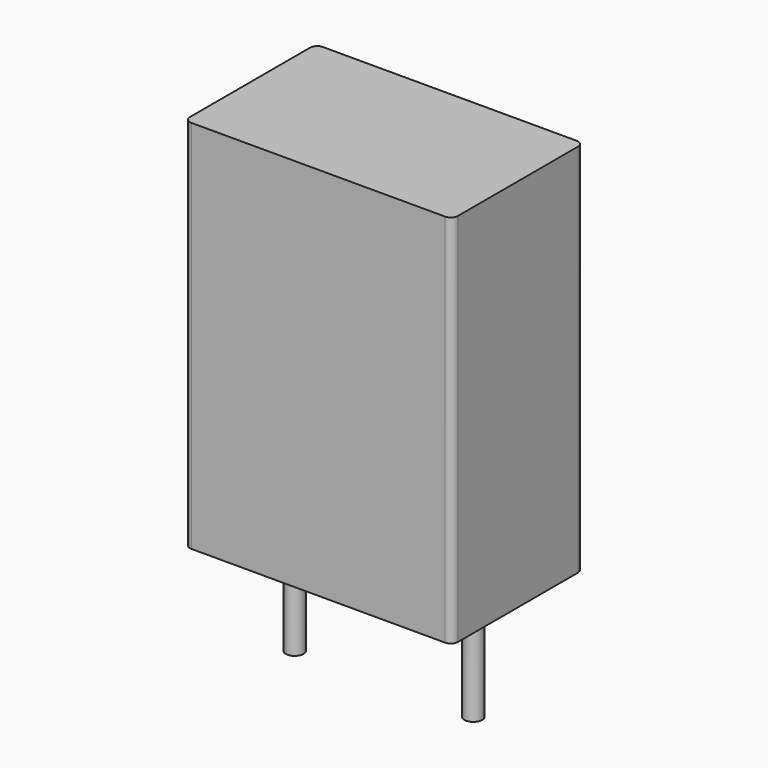
from build123d import *

# Parameters (mm, degrees)
SKETCH001_R  = 0.25
PAD001_DEPTH = 3.5
SKETCH_W     = 7.5
SKETCH_H     = 4.6
PAD_DEPTH    = 10.5
FILLET_R     = 0.2


with BuildPart() as pad001:
    # Sketch001 → Pad001 (new body)
    with BuildSketch(Plane.XY.offset(0.5)):
        Circle(SKETCH001_R)
        with Locations((5, 0)):
            Circle(SKETCH001_R)
    extrude(amount=-PAD001_DEPTH)


with BuildPart() as obj1:
    # Sketch → Pad (new body)
    with BuildSketch(Plane.XY.offset(0.1)):
        with Locations((2.5, 0)):
            Rectangle(SKETCH_W, SKETCH_H)
    extrude(amount=PAD_DEPTH)

    # Fillet
    fillet_edges = [obj1.edges().sort_by_distance(p)[0] for p in [
        (6.25, -2.3, 5.35),
        (6.25, 2.3, 5.35),
        (-1.25, -2.3, 5.35),
        (-1.25, 2.3, 5.35),
    ]]
    fillet(fillet_edges, radius=FILLET_R)

    # obj1: union Pad001
    add(pad001.part)


solid = obj1.part
